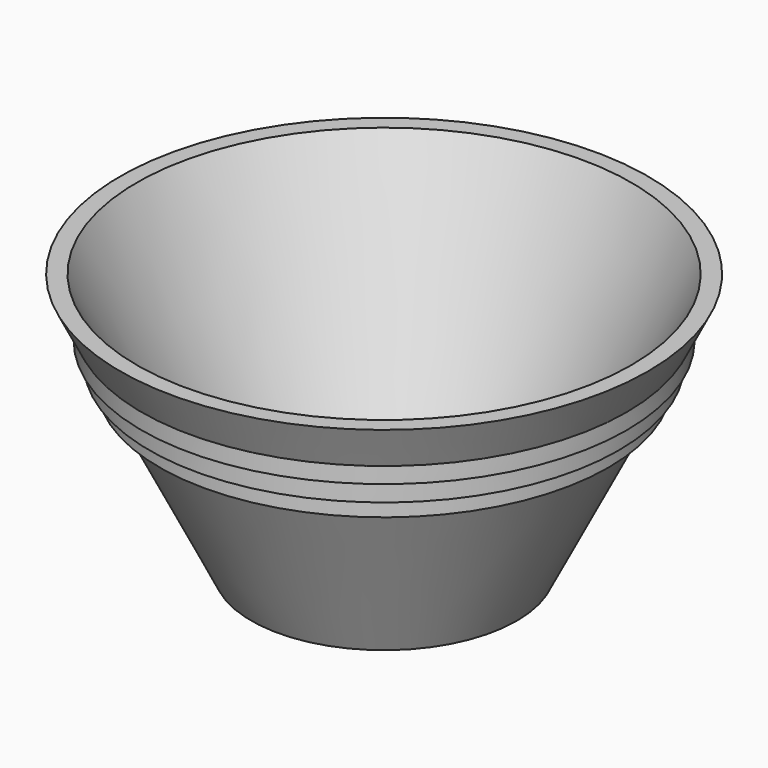
from build123d import *


with BuildPart() as f1:
    # F0 (on Front) → F1 (revolve)
    with BuildSketch(Plane.XZ):
        Polygon((25.4, 0), (0, 0), (0, -3.0734), (27.299466, -3.0734), (44.208006, 30.743681), (46.09435, 34.516368), (48.180423, 38.688514), (49.815372, 41.958412), (54.236166, 50.8), (50.8, 50.8), align=None)
        Polygon((46.09435, 34.516368), (44.208006, 30.743681), (46.09435, 30.743681), align=None)
        Polygon((48.180423, 38.688514), (46.09435, 34.516368), (48.180423, 34.516368), align=None)
        Polygon((49.815372, 38.688514), (49.815372, 41.958412), (48.180423, 38.688514), align=None)
    revolve(axis=Axis((0, 0, 25.4), (0, 0, 1)))


solid = f1.part
